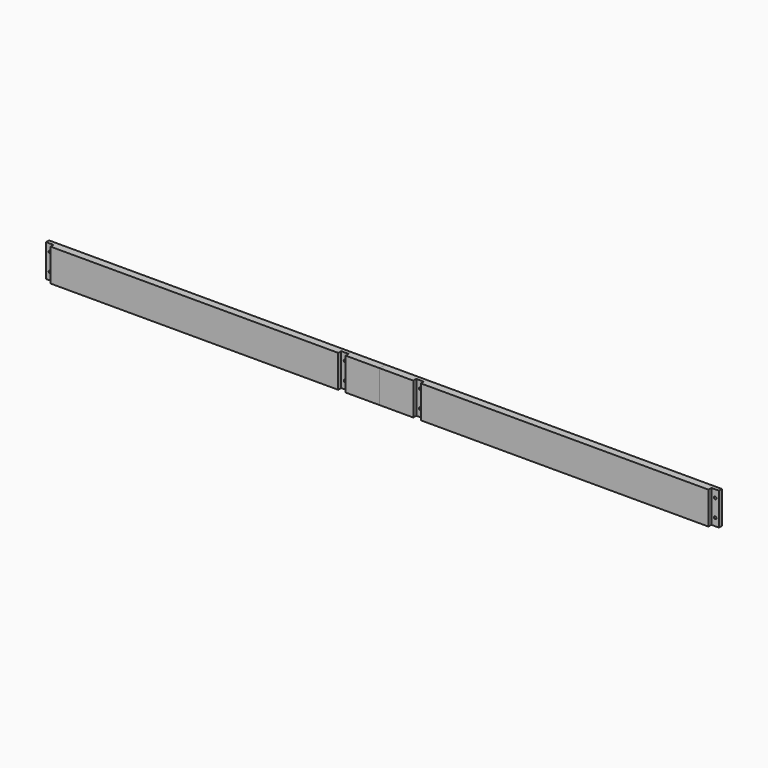
from build123d import *

# Parameters (mm, degrees)
F0_W     = 42.8625
F0_H     = 41.275
F0_W_2   = 9.525
F0_R     = 1.5875
F0_W_3   = 365.125
F1_DEPTH = 9.525
F2_DEPTH = 4.7625


with BuildPart() as f1:
    # F0 (on Front) → F1 (new body)
    with BuildSketch(Plane.XZ):
        with Locations((-335.1384558707, 15.0960850042)):
            Rectangle(F0_W, F0_H)
        with Locations((-308.9447058707, 15.0960850042)):
            Rectangle(F0_W_2, F0_H)
        with Locations((-308.9447058707, 3.9835850042)):
            Circle(F0_R, mode=Mode.SUBTRACT)
        with Locations((-308.9447058707, 26.2085850042)):
            Circle(F0_R, mode=Mode.SUBTRACT)
        with Locations((-121.6197058707, 15.0960850042)):
            Rectangle(F0_W_3, F0_H)
        with Locations((65.7052941293, 15.0960850042)):
            Rectangle(F0_W_2, F0_H)
        with Locations((65.7052941293, 3.9835850042)):
            Circle(F0_R, mode=Mode.SUBTRACT)
        with Locations((65.7052941293, 26.2085850042)):
            Circle(F0_R, mode=Mode.SUBTRACT)
    extrude(amount=-F1_DEPTH)

    # F0 (on Front) → F2 (cut)
    with BuildSketch(Plane.XZ):
        with Locations((65.7052941293, 15.0960850042)):
            Rectangle(F0_W_2, F0_H)
        with Locations((65.7052941293, 3.9835850042)):
            Circle(F0_R, mode=Mode.SUBTRACT)
        with Locations((65.7052941293, 26.2085850042)):
            Circle(F0_R, mode=Mode.SUBTRACT)
        with Locations((-308.9447058707, 15.0960850042)):
            Rectangle(F0_W_2, F0_H)
        with Locations((-308.9447058707, 3.9835850042)):
            Circle(F0_R, mode=Mode.SUBTRACT)
        with Locations((-308.9447058707, 26.2085850042)):
            Circle(F0_R, mode=Mode.SUBTRACT)
    extrude(amount=-F2_DEPTH, mode=Mode.SUBTRACT)


with BuildPart() as f3_1:
    # F3: instance of F1
    add(f1.part.mirror(Plane(origin=(-356.5697058707, 4.7625, 15.0960850042), x_dir=(0, -1, 0), z_dir=(-1, 0, 0))))


solid = Compound([f1.part, f3_1.part])
